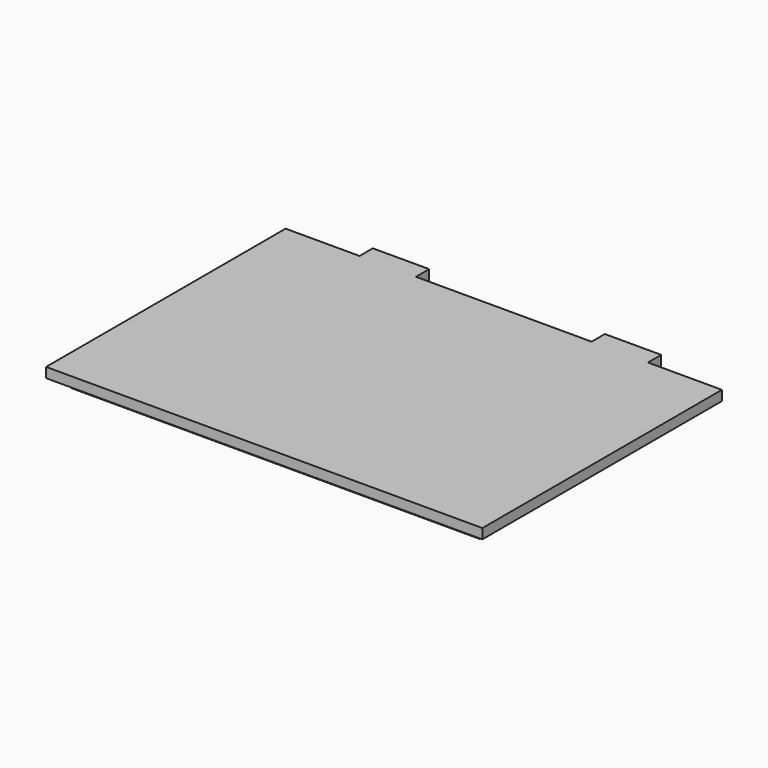
from build123d import *

# Parameters (mm, degrees)
F0_W      = 131.6228
F0_H      = 90.3224
F1_DEPTH  = 3
F2_W      = 123.6228
F2_H      = 82.3224
F3_DEPTH  = 3
F3_TAPER  = 5
F4_W      = 17
F4_H      = 3
F5_DEPTH  = 5
F6_W      = 3
F6_H      = 5
F7_DEPTH  = 4
F8_R      = 3
F10_DEPTH = 25


with BuildPart() as f1:
    # F0 (on Top) → F1 (new body)
    with BuildSketch(Plane.XY):
        Rectangle(F0_W, F0_H)
    extrude(amount=F1_DEPTH)

    # F2 (on face) → F3 (join)
    with BuildSketch(Plane(origin=(0, 0, 0), x_dir=(1, 0, 0), z_dir=(0, 0, -1))):
        Rectangle(F2_W, F2_H)
    extrude(amount=F3_DEPTH, taper=F3_TAPER)

    # F4 (on face) → F5 (join)
    with BuildSketch(Plane(origin=(0, 45.1612, 0), x_dir=(-1, 0, 0), z_dir=(0, 1, 0))):
        with Locations((35, 1.5)):
            Rectangle(F4_W, F4_H)
        with Locations((-35, 1.5)):
            Rectangle(F4_W, F4_H)
    extrude(amount=F5_DEPTH)

    # F6 (on face) → F7 (join)
    with BuildSketch(Plane(origin=(0, 0, 0), x_dir=(1, 0, 0), z_dir=(0, 0, -1))):
        with Locations((-42, -47.6612)):
            Rectangle(F6_W, F6_H)
        with Locations((-28, -47.6612)):
            Rectangle(F6_W, F6_H)
        with Locations((28, -47.6612)):
            Rectangle(F6_W, F6_H)
        with Locations((42, -47.6612)):
            Rectangle(F6_W, F6_H)
    extrude(amount=F7_DEPTH)

    # F8
    f8_edges = [f1.edges().sort_by_distance(p)[0] for p in [
        (-42, 45.1612, -4),
        (-28, 45.1612, -4),
    ]]
    fillet(f8_edges, radius=F8_R)

    # F9 (on face) → F10 (cut)
    with BuildSketch(Plane(origin=(-43.5, 0, 0), x_dir=(0, -1, 0), z_dir=(-1, 0, 0))):
        with BuildLine():
            Line((-45.1612, -1), (-45.1612, 0))
            Line((-45.1612, 0), (-45.6612, 0))
            Line((-45.6612, 0), (-45.6612, -2.6583123952))
            ThreePointArc((-45.6612, -2.6583123952), (-45.2889186767, -1.8660254038), (-45.1612, -1))
        make_face()
    extrude(amount=-F10_DEPTH, mode=Mode.SUBTRACT)

    # F11 (on face) → F12 (revolve)
    with BuildSketch(Plane.YZ.offset(-40.5)):
        with BuildLine():
            Line((47.0152064206, -1.9), (49.5071935794, -1.9))
            ThreePointArc((49.5071935794, -1.9), (48.2612, -0.75), (47.0152064206, -1.9))
        make_face()
    revolve(axis=Axis((-40.5, 47.9112, -2), (0, -1, 0)))

    # F13 (on face) → F14 (revolve)
    with BuildSketch(Plane(origin=(-29.5, 0, 0), x_dir=(0, -1, 0), z_dir=(-1, 0, 0))):
        with BuildLine():
            Line((-49.5112, -1.9), (-47.0192128411, -1.9))
            ThreePointArc((-47.0192128411, -1.9), (-48.2652064206, -0.75), (-49.5112, -1.9))
        make_face()
    revolve(axis=Axis((-29.5, 47.9112, -2), (0, 1, 0)))


solid = f1.part
